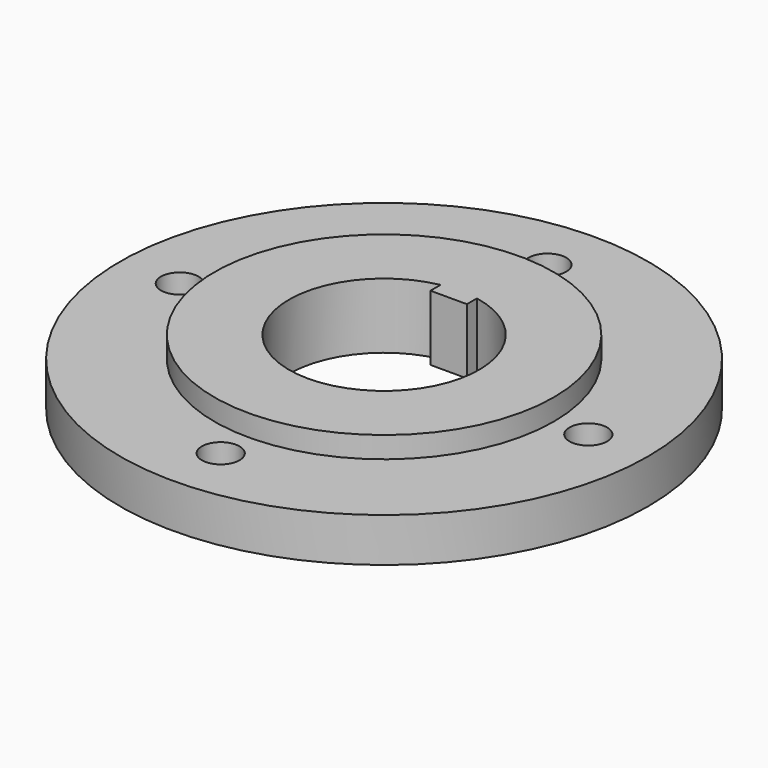
from build123d import *

# Parameters (mm, degrees)
SKETCH_R     = 42
PAD_DEPTH    = 7
SKETCH003_R  = 27
PAD001_DEPTH = 3.4
SKETCH004_R  = 3
HOLE_DEPTH   = 25


with BuildPart() as part:
    # Sketch → Pad (new body)
    with BuildSketch(Plane.XY):
        Circle(SKETCH_R)
        with BuildLine():
            Line((-2.9, 14.84438), (-2.9, 12.84438))
            Line((-2.9, 12.84438), (2.9, 12.84438))
            Line((2.9, 12.84438), (2.9, 14.84438))
            ThreePointArc((-2.9, 14.84438), (0, -15.125), (2.9, 14.84438))
        make_face(mode=Mode.SUBTRACT)
    extrude(amount=PAD_DEPTH)

    # Sketch003 (on Face7 of Pad) → Pad001 (join)
    with BuildSketch(Plane.XY.offset(7)):
        Circle(SKETCH003_R)
        with BuildLine():
            ThreePointArc((-2.9, 14.84438), (0, -15.125), (2.9, 14.84438))
            Line((2.9, 12.84438), (2.9, 14.84438))
            Line((-2.9, 12.84438), (2.9, 12.84438))
            Line((-2.9, 14.84438), (-2.9, 12.84438))
        make_face(mode=Mode.SUBTRACT)
    extrude(amount=PAD001_DEPTH)

    # Sketch004 (on Face3 of Pad001) → Hole (cut)
    with BuildSketch(Plane.XY.offset(7)):
        with Locations((0, 32.5)):
            Circle(SKETCH004_R)
        with Locations((0, -32.5)):
            Circle(SKETCH004_R)
        with Locations((32.5, 0)):
            Circle(SKETCH004_R)
        with Locations((-32.5, 0)):
            Circle(SKETCH004_R)
    extrude(amount=-HOLE_DEPTH, mode=Mode.SUBTRACT)


solid = part.part
